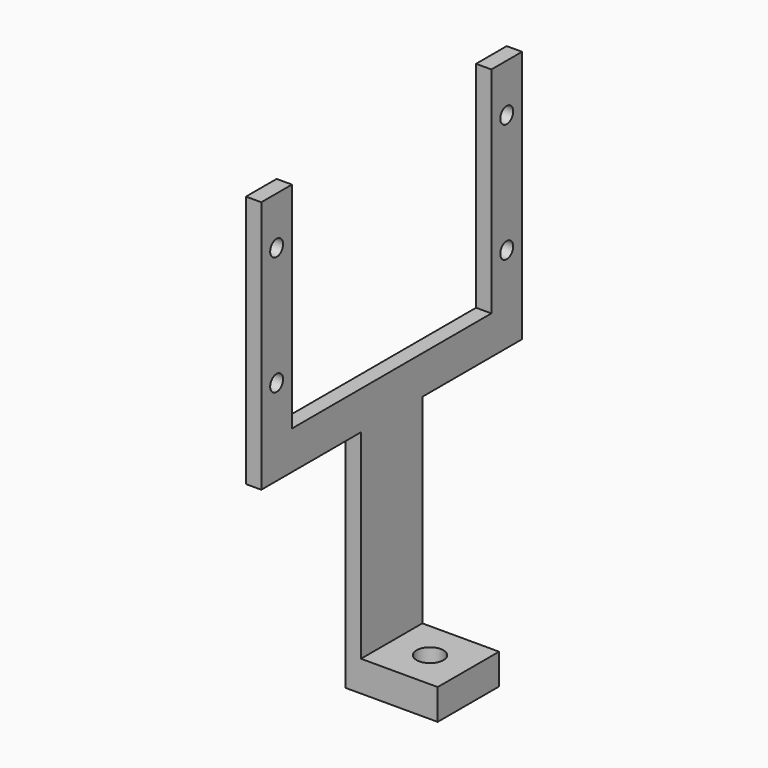
from build123d import *

# Parameters (mm, degrees)
SKETCH056_R     = 1.05
PAD039_DEPTH    = 2
SKETCH057_W     = 10
SKETCH057_H     = 4
PAD040_DEPTH    = 10
SKETCH058_R     = 1.75
POCKET009_DEPTH = 4.001


with BuildPart() as part:
    # Sketch056 → Pad039 (new body)
    with BuildSketch(Plane.YZ):
        Polygon((-21.25, 67), (-16.25, 67), (-16.25, 39), (16.25, 39), (16.25, 67), (21.25, 67), (21.25, 34), (5, 34), (5, 4), (-5, 4), (-5, 34), (-21.25, 34), align=None)
        with Locations((-18.75, 60.75)):
            Circle(SKETCH056_R, mode=Mode.SUBTRACT)
        with Locations((-18.75, 45.25)):
            Circle(SKETCH056_R, mode=Mode.SUBTRACT)
        with Locations((18.75, 45.25)):
            Circle(SKETCH056_R, mode=Mode.SUBTRACT)
        with Locations((18.75, 60.75)):
            Circle(SKETCH056_R, mode=Mode.SUBTRACT)
    extrude(amount=PAD039_DEPTH)

    # Sketch057 (on Face18 of Pad039) → Pad040 (join)
    with BuildSketch(Plane.YZ.offset(2)):
        with Locations((0, 6)):
            Rectangle(SKETCH057_W, SKETCH057_H)
    extrude(amount=PAD040_DEPTH)

    # Sketch058 (on Face19 of Pad040) → Pocket009 (cut, through all)
    with BuildSketch(Plane(origin=(0, 0, 8), x_dir=(0, -1, 0), z_dir=(0, 0, 1))):
        with Locations((0, 7)):
            Circle(SKETCH058_R)
    extrude(amount=-POCKET009_DEPTH, mode=Mode.SUBTRACT)


with BuildPart() as part_1:
    # Body013 placement: moved
    add(part.part.moved(Location((41, 0, 0))))


solid = part_1.part
